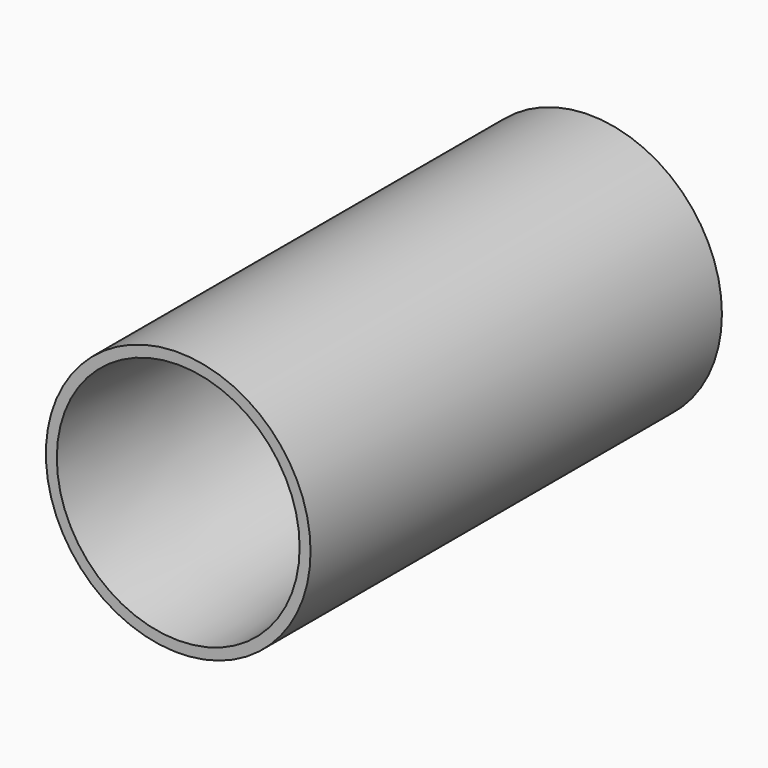
from build123d import *

# Parameters (mm, degrees)
F0_R     = 10.875
F0_R_2   = 8.5
F1_DEPTH = 21.125
F2_DEPTH = 21.125
F2_TAPER = -4


with BuildPart() as f1:
    # F0 (on Front) → F1 (new body, symmetric)
    with BuildSketch(Plane.XZ):
        Circle(F0_R)
        Circle(F0_R_2, mode=Mode.SUBTRACT)
    extrude(amount=F1_DEPTH, both=True)

    # F0 (on Front) → F2 (cut, symmetric)
    with BuildSketch(Plane.XZ):
        Circle(F0_R_2)
    extrude(amount=F2_DEPTH, both=True, taper=F2_TAPER, mode=Mode.SUBTRACT)


solid = f1.part
